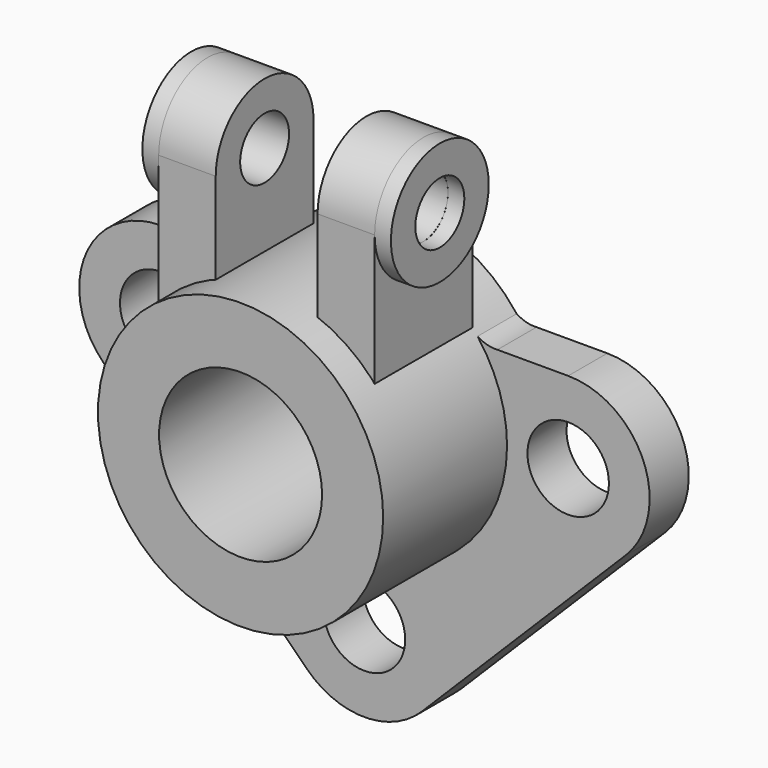
from build123d import *

# Parameters (mm, degrees)
SKETCH_R      = 10
PAD_DEPTH     = 12
SKETCH001_R   = 35
PAD001_DEPTH  = 38
SKETCH002_R   = 20
POCKET_DEPTH  = 50.0010001001
SKETCH007_W   = 25
SKETCH007_H   = 67.86781
PAD005_DEPTH  = 35
SKETCH003_R   = 7.5
PAD002_DEPTH  = 26.5
SKETCH004_R   = 15
SKETCH004_R_2 = 7.519347
PAD003_DEPTH  = 4
SKETCH005_R   = 15
SKETCH005_R_2 = 7.5
PAD004_DEPTH  = 4


with BuildPart() as pocket:
    # Sketch → Pad (new body)
    with BuildSketch(Plane.XZ):
        with BuildLine():
            ThreePointArc((64.1455828599, -14.1386875471), (68.4766574692, 7.6559211573), (49.9999994008, 20))
            Line((32.6341387324, 20), (49.9999994008, 20))
            ThreePointArc((27.7632558123, 21.3120066325), (30.0925786366, 20.2620331658), (32.6341387324, 20))
            ThreePointArc((27.7632558123, 21.3120066325), (0.2819327298, 34.9988644664), (-27.4163181857, 21.7565047087))
            ThreePointArc((-32.6343266922, 20), (-29.8694565663, 20.4152251587), (-27.4163181857, 21.7565047087))
            Line((-50.0000063638, 20), (-32.6343266922, 20))
            ThreePointArc((-50.0000063638, 20), (-68.4694998513, 7.6731724367), (-64.1719702082, -14.1122379663))
            Line((-14.2068552394, -64.0771184625), (-64.1719702082, -14.1122379663))
            ThreePointArc((-14.2068552394, -64.0771184625), (0.00748211, -69.9999986005), (14.2173839169, -64.0664847975))
            Line((14.2173839169, -64.0664847975), (64.1455828599, -14.1386875471))
        make_face()
        with Locations((-50, 0)):
            Circle(SKETCH_R, mode=Mode.SUBTRACT)
        with Locations((50, 0)):
            Circle(SKETCH_R, mode=Mode.SUBTRACT)
        with Locations((0, -50)):
            Circle(SKETCH_R, mode=Mode.SUBTRACT)
    extrude(amount=-PAD_DEPTH)

    # Sketch001 → Pad001 (new body)
    with BuildSketch(Plane.XZ):
        Circle(SKETCH001_R)
    extrude(amount=PAD001_DEPTH)

    # Sketch002 → Pocket (cut, through all)
    with BuildSketch(Plane.XZ.offset(38)):
        Circle(SKETCH002_R)
    extrude(amount=-POCKET_DEPTH, mode=Mode.SUBTRACT)


with BuildPart() as pad005:
    # Sketch007 → Pad005 (new body)
    with BuildSketch(Plane.XZ):
        with Locations((0, 58.133799)):
            Rectangle(SKETCH007_W, SKETCH007_H)
    extrude(amount=PAD005_DEPTH)


with BuildPart() as cut:
    # Sketch003 → Pad002 (new body, symmetric)
    with BuildSketch(Plane.YZ):
        with BuildLine():
            ThreePointArc((-2.58777e-05, 54.9721373105), (-14.9877042055, 69.9999949604), (-29.9999996433, 54.9967288863))
            Line((-29.9999996433, 54.9967288863), (-29.9999996433, 20.060029))
            Line((-29.9999996433, 20.060029), (3.567e-07, 20.060029))
            Line((3.567e-07, 20.060029), (-2.58777e-05, 54.9721373105))
        make_face()
        with Locations((-15, 55)):
            Circle(SKETCH003_R, mode=Mode.SUBTRACT)
    extrude(amount=PAD002_DEPTH, both=True)

    # Sketch004 → Pad003 (new body)
    with BuildSketch(Plane.YZ.offset(26.5)):
        with Locations((-15, 55)):
            Circle(SKETCH004_R)
        with Locations((-15, 55)):
            Circle(SKETCH004_R_2, mode=Mode.SUBTRACT)
    extrude(amount=PAD003_DEPTH)

    # Sketch005 → Pad004 (new body)
    with BuildSketch(Plane(origin=(-26.5, 0, 0), x_dir=(0, 1, 0), z_dir=(-1, 0, 0))):
        with Locations((-15, -55)):
            Circle(SKETCH005_R)
        with Locations((-15, -55)):
            Circle(SKETCH005_R_2, mode=Mode.SUBTRACT)
    extrude(amount=PAD004_DEPTH)

    # Cut: cut Pad005
    add(pad005.part, mode=Mode.SUBTRACT)


solid = Compound([pocket.part, cut.part])
